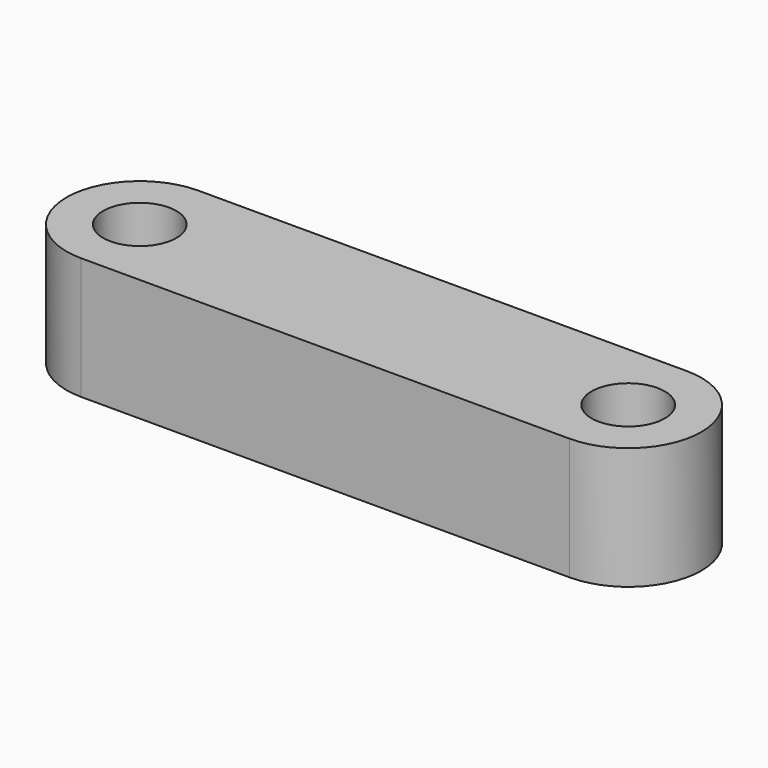
from build123d import *

# Parameters (mm, degrees)
F0_R     = 7.5
F1_DEPTH = 25


with BuildPart() as f1:
    # F0 (on Top) → F1 (new body)
    with BuildSketch(Plane.XY):
        with BuildLine():
            ThreePointArc((0, 15), (-15, 0), (0, -15))
            Line((0, -15), (100, -15))
            ThreePointArc((100, -15), (115, 0), (100, 15))
            Line((100, 15), (0, 15))
        make_face()
        Circle(F0_R, mode=Mode.SUBTRACT)
        with Locations((100, 0)):
            Circle(F0_R, mode=Mode.SUBTRACT)
    extrude(amount=F1_DEPTH)


solid = f1.part
